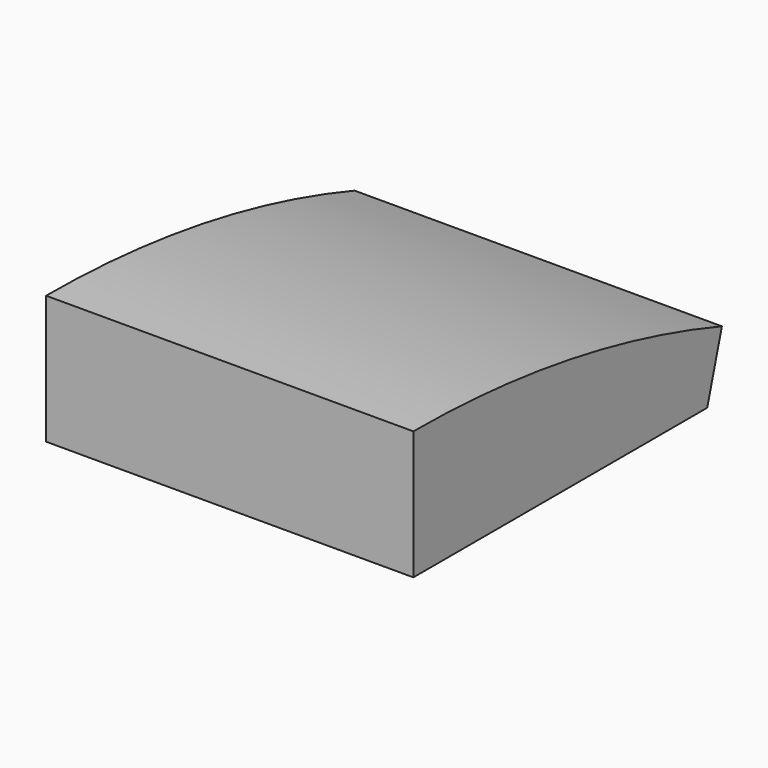
from build123d import *

# Parameters (mm, degrees)
F0_W     = 101.6
F0_H     = 106.68
F1_DEPTH = 35.56
F3_DEPTH = 127


with BuildPart() as f1:
    # F0 (on Top) → F1 (new body)
    with BuildSketch(Plane.XY):
        with Locations((-2.276931, 28.078797)):
            Rectangle(F0_W, F0_H)
    extrude(amount=F1_DEPTH)

    # F2 (on face) → F3 (cut)
    with BuildSketch(Plane.YZ.offset(48.523069)):
        with BuildLine():
            ThreePointArc((-25.261203, 35.56), (28.814556, 31.084553), (81.418797, 17.78))
            Line((81.418797, 17.78), (81.418797, 35.56))
            Line((81.418797, 35.56), (-25.261203, 35.56))
        make_face()
        Polygon((81.418797, 0), (81.418797, 17.78), (76.338797, 0), align=None)
    extrude(amount=-F3_DEPTH, mode=Mode.SUBTRACT)


solid = f1.part
